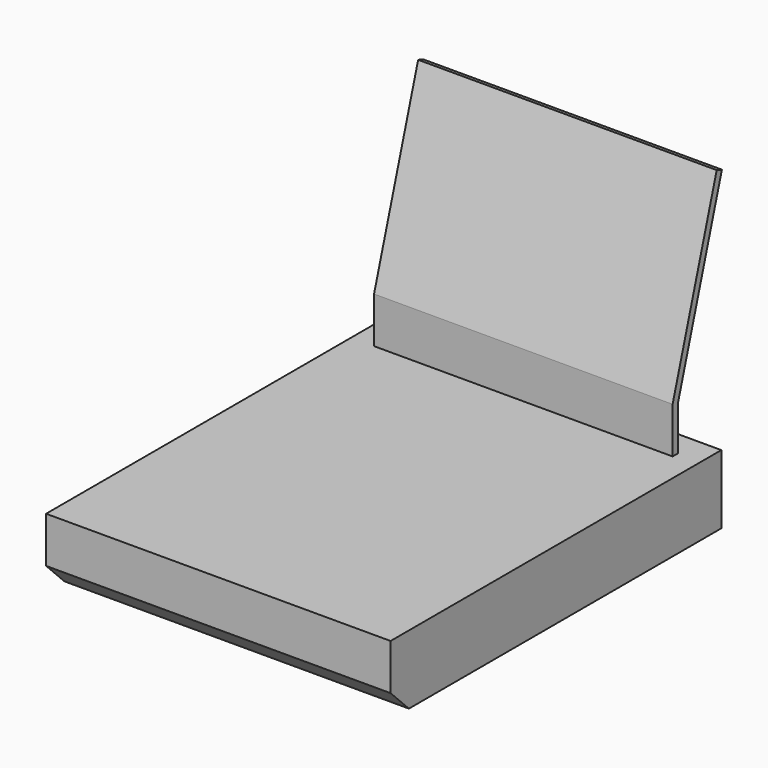
from build123d import *

# Parameters (mm, degrees)
F0_W     = 900
F0_H     = 150
F1_DEPTH = 375
F2_SIZE  = 50
F4_DEPTH = 325


with BuildPart() as f1:
    # F0 (on Right) → F1 (new body, symmetric)
    with BuildSketch(Plane.YZ):
        Rectangle(F0_W, F0_H)
    extrude(amount=F1_DEPTH, both=True)

    # F2
    f2_edges = [f1.edges().sort_by_distance(p)[0] for p in [
        (0, -450, -75),
    ]]
    chamfer(f2_edges, length=F2_SIZE)

    # F3 (on Right) → F4 (join, symmetric)
    with BuildSketch(Plane.YZ):
        Polygon((380, 175), (380, 75), (395, 75), (395, 172.798467), (514.191467, 570.103357), (500, 575), align=None)
    extrude(amount=F4_DEPTH, both=True)


solid = f1.part
